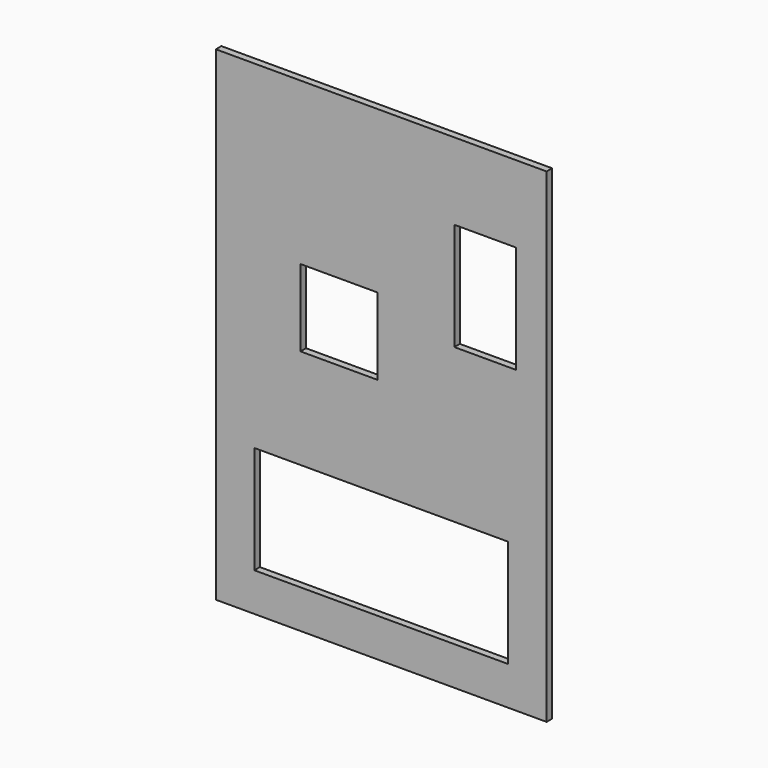
from build123d import *

# Parameters (mm, degrees)
F0_W     = 430
F0_H     = 630
F1_DEPTH = 9
F2_W     = 330
F2_H     = 140
F2_W_2   = 100
F2_H_2   = 100
F2_W_3   = 80
F3_DEPTH = 25


with BuildPart() as f1:
    # F0 (on Front) → F1 (new body)
    with BuildSketch(Plane.XZ):
        with Locations((-215, 315)):
            Rectangle(F0_W, F0_H)
    extrude(amount=F1_DEPTH)

    # F2 (on face) → F3 (cut)
    with BuildSketch(Plane(origin=(0, 0, 0), x_dir=(-1, 0, 0), z_dir=(0, 1, 0))):
        with Locations((215, 120)):
            Rectangle(F2_W, F2_H)
        with Locations((270, 370)):
            Rectangle(F2_W_2, F2_H_2)
        with Locations((80, 460)):
            Rectangle(F2_W_3, F2_H)
    extrude(amount=-F3_DEPTH, mode=Mode.SUBTRACT)


solid = f1.part
